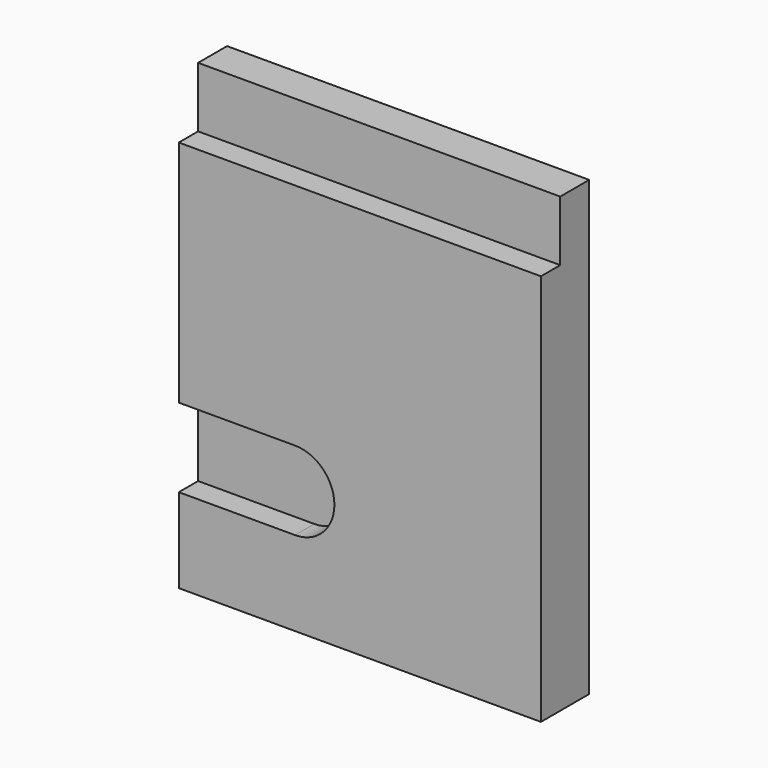
from build123d import *

# Parameters (mm, degrees)
F0_W     = 120
F0_H     = 20
F1_DEPTH = 12
F2_DEPTH = 20
F3_DEPTH = 20
F4_DEPTH = 20
F5_DEPTH = 12


with BuildPart() as f1:
    # F0 (on Front) → F1 (new body)
    with BuildSketch(Plane.XZ):
        with Locations((-60, 85.875011)):
            Rectangle(F0_W, F0_H)
    extrude(amount=F1_DEPTH)

    # F0 (on Front) → F2 (join)
    with BuildSketch(Plane.XZ):
        Polygon((0, 75.875011), (-120, 75.875011), (-120, 0), (-81.5, 0), (0, 0), align=None)
    extrude(amount=F2_DEPTH)

    # F0 (on Front) → F3 (join)
    with BuildSketch(Plane.XZ):
        with BuildLine():
            Line((0, 0), (-81.5, 0))
            ThreePointArc((-81.5, 0), (-68.437506, -13.062494), (-81.5, -26.124989))
            Line((-81.5, -26.124989), (0, -26.124989))
            Line((0, -26.124989), (0, -1.124989))
            Line((0, -1.124989), (0, 0))
        make_face()
    extrude(amount=F3_DEPTH)

    # F0 (on Front) → F4 (join)
    with BuildSketch(Plane.XZ):
        Polygon((-81.5, -26.124989), (-120, -26.124989), (-120, -54.124989), (0, -54.124989), (0, -26.124989), align=None)
    extrude(amount=F4_DEPTH)

    # F0 (on Front) → F5 (join)
    with BuildSketch(Plane.XZ):
        with BuildLine():
            Line((-81.5, 0), (-120, 0))
            Line((-120, 0), (-120, -26.124989))
            Line((-120, -26.124989), (-81.5, -26.124989))
            ThreePointArc((-81.5, -26.124989), (-68.437506, -13.062494), (-81.5, 0))
        make_face()
    extrude(amount=F5_DEPTH)


solid = f1.part
